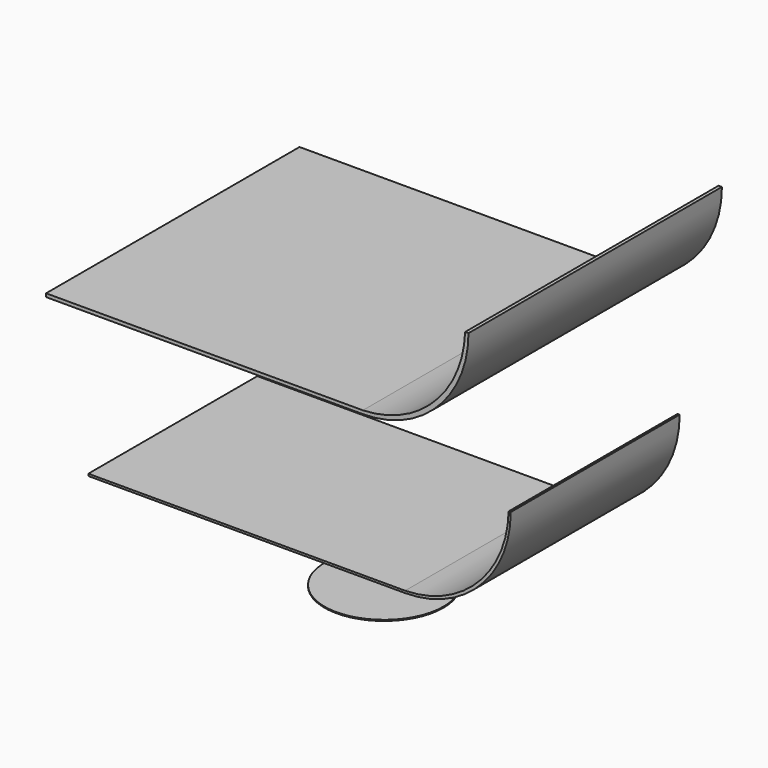
from build123d import *

# Parameters (mm, degrees)
F0_R     = 14.2875
F1_DEPTH = 0.254
F3_DEPTH = 25.4
F5_DEPTH = 38.1


with BuildPart() as f1:
    # F0 (on Top) → F1 (new body)
    with BuildSketch(Plane.XY):
        Circle(F0_R)
    extrude(amount=F1_DEPTH)


with BuildPart() as f3:
    # F2 (on Front) → F3 (new body, symmetric)
    with BuildSketch(Plane.XZ):
        with BuildLine():
            ThreePointArc((25.4, 17.0656269602), (43.3605122421, 24.505114718), (50.8, 42.4656269602))
            Line((50.8, 42.4656269602), (50.292, 42.4656269602))
            ThreePointArc((50.292, 42.4656269602), (42.8574935921, 25.0081333681), (25.4, 17.5736269602))
            Line((25.4, 17.5736269602), (-50.8, 17.5736269602))
            Line((-50.8, 17.5736269602), (-50.8, 17.0656269602))
            Line((-50.8, 17.0656269602), (25.4, 17.0656269602))
        make_face()
    extrude(amount=F3_DEPTH, both=True)


with BuildPart() as f5:
    # F4 (on Front) → F5 (new body, symmetric)
    with BuildSketch(Plane.XZ):
        with BuildLine():
            Line((-50.8, 60.1205236641), (25.4, 60.1205236641))
            ThreePointArc((25.4, 60.1205236641), (43.3605122421, 67.5600114219), (50.8, 85.5205236641))
            Line((50.8, 85.5205236641), (49.9872, 85.5205236641))
            ThreePointArc((49.9872, 85.5205236641), (42.5603198564, 68.3602038076), (25.4, 60.9333236641))
            Line((25.4, 60.9333236641), (-50.8, 60.9333236641))
            Line((-50.8, 60.9333236641), (-50.8, 60.1205236641))
        make_face()
    extrude(amount=F5_DEPTH, both=True)


solid = Compound([f1.part, f3.part, f5.part])
